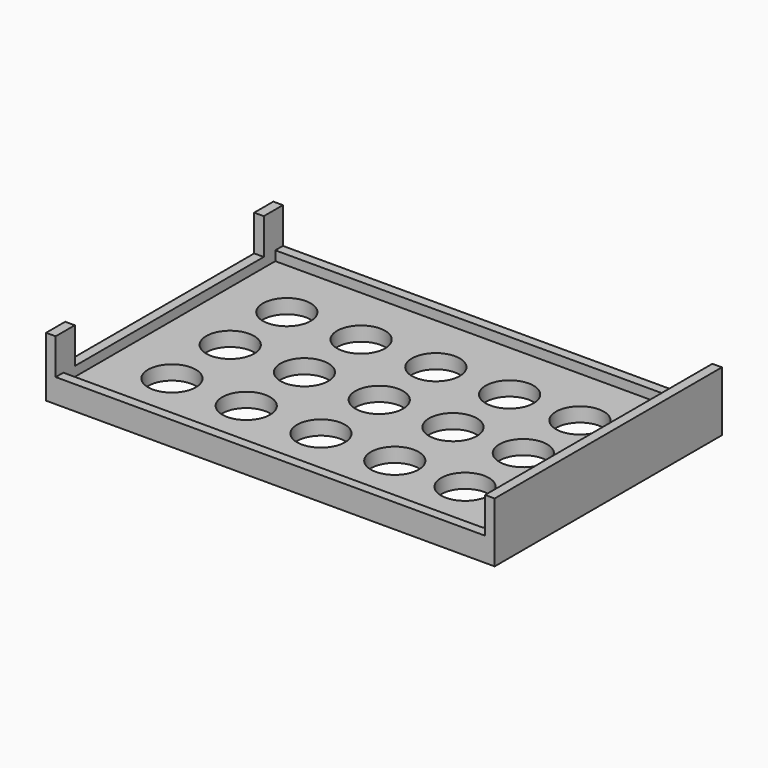
from build123d import *

# Parameters (mm, degrees)
F0_W      = 95.25
F0_H      = 60.325
F1_DEPTH  = 3.048
F2_W      = 2.032
F2_H      = 60.325
F3_DEPTH  = 9.652
F4_W      = 2.032
F4_H      = 5.08
F5_DEPTH  = 9.652
F6_W      = 2.032
F6_H      = 5.08
F7_DEPTH  = 9.652
F8_W      = 91.186
F8_H      = 2.027074
F8_H_2    = 2.032
F9_DEPTH  = 2.032
F10_W     = 2.032
F10_H     = 50.165
F11_DEPTH = 2.032
F12_W     = 2.032
F12_H     = 56.265926
F13_DEPTH = 2.032
F14_R     = 5.08
F15_DEPTH = 25.4


with BuildPart() as f1:
    # F0 (on Top) → F1 (new body)
    with BuildSketch(Plane.XY):
        with Locations((-6.869216, -18.085686)):
            Rectangle(F0_W, F0_H)
    extrude(amount=F1_DEPTH)

    # F2 (on face) → F3 (join)
    with BuildSketch(Plane.XY.offset(3.048)):
        with Locations((39.739784, -18.085686)):
            Rectangle(F2_W, F2_H)
    extrude(amount=F3_DEPTH)

    # F4 (on face) → F5 (join)
    with BuildSketch(Plane.XY.offset(3.048)):
        with Locations((-53.478216, -45.708186)):
            Rectangle(F4_W, F4_H)
    extrude(amount=F5_DEPTH)

    # F6 (on face) → F7 (join)
    with BuildSketch(Plane.XY.offset(3.048)):
        with Locations((-53.478216, 9.536814)):
            Rectangle(F6_W, F6_H)
    extrude(amount=F7_DEPTH)

    # F8 (on face) → F9 (join)
    with BuildSketch(Plane.XY.offset(3.048)):
        with Locations((-6.869216, 11.063277)):
            Rectangle(F8_W, F8_H)
        with Locations((-6.869216, -47.232186)):
            Rectangle(F8_W, F8_H_2)
    extrude(amount=F9_DEPTH)

    # F10 (on face) → F11 (join)
    with BuildSketch(Plane.XY.offset(3.048)):
        with Locations((-53.478216, -18.085686)):
            Rectangle(F10_W, F10_H)
    extrude(amount=F11_DEPTH)

    # F12 (on face) → F13 (join)
    with BuildSketch(Plane.XY.offset(3.048)):
        with Locations((37.707784, -18.083223)):
            Rectangle(F12_W, F12_H)
    extrude(amount=F13_DEPTH)

    # F14 (on face) → F15 (cut)
    with BuildSketch(Plane.XY.offset(3.048)):
        with Locations((-39.531879, -3.051191)):
            Circle(F14_R)
        with Locations((-23.761189, -3.051191)):
            Circle(F14_R)
        with Locations((-7.885216, -3.051191)):
            Circle(F14_R)
        with Locations((7.780211, -3.051191)):
            Circle(F14_R)
        with Locations((22.709807, -3.051191)):
            Circle(F14_R)
        with Locations((22.709807, -18.083223)):
            Circle(F14_R)
        with Locations((7.780211, -18.083223)):
            Circle(F14_R)
        with Locations((-7.885216, -18.083223)):
            Circle(F14_R)
        with Locations((-23.761189, -18.083223)):
            Circle(F14_R)
        with Locations((-39.531879, -18.083223)):
            Circle(F14_R)
        with Locations((-39.531879, -33.541203)):
            Circle(F14_R)
        with Locations((-23.761189, -33.541203)):
            Circle(F14_R)
        with Locations((-7.885216, -33.541203)):
            Circle(F14_R)
        with Locations((22.709807, -33.541203)):
            Circle(F14_R)
        with Locations((7.780211, -33.541203)):
            Circle(F14_R)
    extrude(amount=-F15_DEPTH, mode=Mode.SUBTRACT)


solid = f1.part
